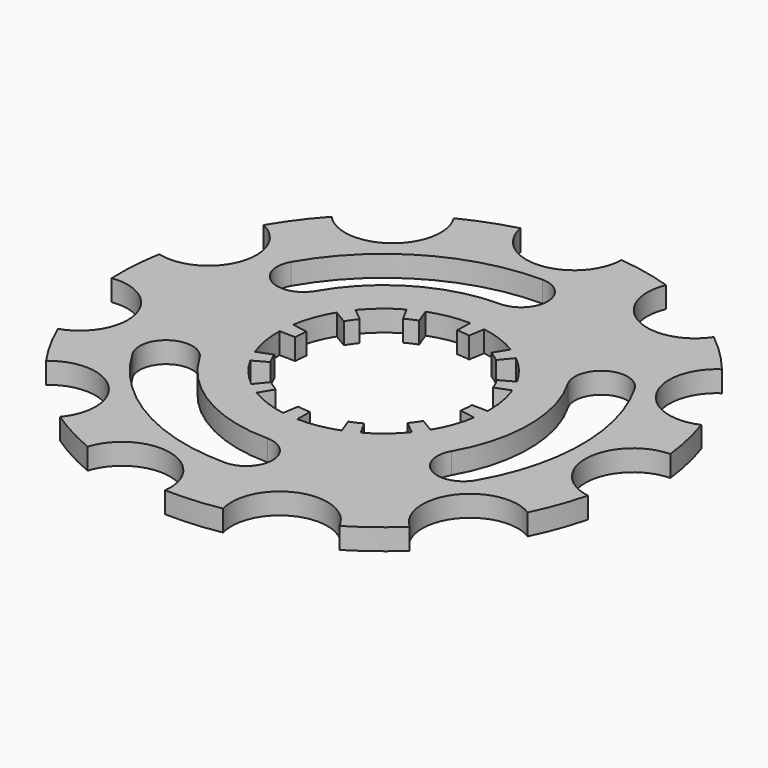
from build123d import *

# Parameters (mm, degrees)
F1_DEPTH = 2
F2_DEPTH = 2
F4_DEPTH = 2


with BuildPart() as f1:
    # F0 (on Top) → F1 (new body)
    with BuildSketch(Plane.XY):
        with BuildLine():
            ThreePointArc((24.235519, -6.135113), (20.423062, -1.358402), (24.834565, 2.871307))
            ThreePointArc((24.834565, 2.871307), (24.40188, 5.435831), (23.705109, 7.941526))
            ThreePointArc((23.705109, 7.941526), (17.91538, 9.89878), (19.33982, 15.842076))
            ThreePointArc((19.33982, 15.842076), (17.589336, 17.765564), (15.648493, 19.496786))
            ThreePointArc((15.648493, 19.496786), (9.719693, 18.01317), (7.704819, 23.783098))
            ThreePointArc((7.704819, 23.783098), (5.192302, 24.454856), (2.623592, 24.861954))
            ThreePointArc((2.623592, 24.861954), (-1.561929, 20.408505), (-6.376408, 24.173155))
            ThreePointArc((-6.376408, 24.173155), (-8.853251, 23.379905), (-11.234281, 22.333628))
            ThreePointArc((-11.234281, 22.333628), (-12.347649, 16.324284), (-18.43317, 16.888406))
            ThreePointArc((-18.43317, 16.888406), (-20.08796, 14.881998), (-21.525349, 12.714532))
            ThreePointArc((-21.525349, 12.714532), (-19.213078, 7.057219), (-24.637531, 4.241707))
            ThreePointArc((-24.637531, 4.241707), (-24.944883, 1.659163), (-24.982271, -0.941337))
            ThreePointArc((-24.982271, -0.941337), (-19.97849, -4.450464), (-23.01965, -9.751704))
            ThreePointArc((-23.01965, -9.751704), (-21.881982, -12.090445), (-20.507499, -14.298339))
            ThreePointArc((-20.507499, -14.298339), (-14.400873, -14.545156), (-14.093192, -20.649018))
            ThreePointArc((-14.093192, -20.649018), (-11.871706, -22.001422), (-9.52174, -23.115719))
            ThreePointArc((-9.52174, -23.115719), (-4.25108, -20.021864), (-0.692246, -24.990414))
            ThreePointArc((-0.692246, -24.990414), (1.907752, -24.927103), (4.487104, -24.594022))
            ThreePointArc((4.487104, -24.594022), (7.2484, -19.141771), (12.928483, -21.397531))
            ThreePointArc((12.928483, -21.397531), (15.081513, -19.938605), (17.071324, -18.263896))
            ThreePointArc((17.071324, -18.263896), (16.446565, -12.184301), (22.444511, -11.011082))
            ThreePointArc((22.444511, -11.011082), (23.467, -8.619741), (24.235519, -6.135113))
        make_face()
        with BuildLine():
            ThreePointArc((9.357447, 3.52678), (9.83805, 1.792418), (10, 0))
            ThreePointArc((10, 0), (9.999547, -0.095211), (9.998187, -0.190414))
            ThreePointArc((9.998187, -0.190414), (9.958528, -0.909789), (9.867177, -1.624442))
            ThreePointArc((9.867177, -1.624442), (9.383729, -3.456246), (8.563477, -5.163997))
            ThreePointArc((8.563477, -5.163997), (8.169444, -5.767165), (7.733005, -6.340397))
            ThreePointArc((7.733005, -6.340397), (6.398425, -7.685061), (4.83419, -8.753891))
            ThreePointArc((4.83419, -8.753891), (4.191363, -9.079233), (3.52678, -9.357447))
            ThreePointArc((3.52678, -9.357447), (1.698668, -9.85467), (-0.190414, -9.998187))
            ThreePointArc((-0.190414, -9.998187), (-0.909789, -9.958528), (-1.624442, -9.867177))
            ThreePointArc((-1.624442, -9.867177), (-3.456246, -9.383729), (-5.163997, -8.563477))
            ThreePointArc((-5.163997, -8.563477), (-5.767165, -8.169444), (-6.340397, -7.733005))
            ThreePointArc((-6.340397, -7.733005), (-7.685061, -6.398425), (-8.753891, -4.83419))
            ThreePointArc((-8.753891, -4.83419), (-9.079233, -4.191363), (-9.357447, -3.52678))
            ThreePointArc((-9.357447, -3.52678), (-9.85467, -1.698668), (-9.998187, 0.190414))
            ThreePointArc((-9.998187, 0.190414), (-9.958528, 0.909789), (-9.867177, 1.624442))
            ThreePointArc((-9.867177, 1.624442), (-9.383729, 3.456246), (-8.563477, 5.163997))
            ThreePointArc((-8.563477, 5.163997), (-8.169444, 5.767165), (-7.733005, 6.340397))
            ThreePointArc((-7.733005, 6.340397), (-6.398425, 7.685061), (-4.83419, 8.753891))
            ThreePointArc((-4.83419, 8.753891), (-4.191363, 9.079233), (-3.52678, 9.357447))
            ThreePointArc((-3.52678, 9.357447), (-1.698668, 9.85467), (0.190414, 9.998187))
            ThreePointArc((0.190414, 9.998187), (0.909789, 9.958528), (1.624442, 9.867177))
            ThreePointArc((1.624442, 9.867177), (3.456246, 9.383729), (5.163997, 8.563477))
            ThreePointArc((5.163997, 8.563477), (5.767165, 8.169444), (6.340397, 7.733005))
            ThreePointArc((6.340397, 7.733005), (7.685061, 6.398425), (8.753891, 4.83419))
            ThreePointArc((8.753891, 4.83419), (9.079233, 4.191363), (9.357447, 3.52678))
        make_face(mode=Mode.SUBTRACT)
    extrude(amount=F1_DEPTH)

    # F0 (on Top) → F2 (join)
    with BuildSketch(Plane.XY):
        with BuildLine():
            Line((7.95383, 2.997763), (9.357447, 3.52678))
            ThreePointArc((9.357447, 3.52678), (9.079233, 4.191363), (8.753891, 4.83419))
            Line((8.753891, 4.83419), (7.440807, 4.109062))
            ThreePointArc((7.440807, 4.109062), (7.717348, 3.562659), (7.95383, 2.997763))
        make_face()
        with BuildLine():
            Line((5.389337, 6.573054), (6.340397, 7.733005))
            ThreePointArc((6.340397, 7.733005), (5.767165, 8.169444), (5.163997, 8.563477))
            Line((5.163997, 8.563477), (4.389397, 7.278955))
            ThreePointArc((4.389397, 7.278955), (4.90209, 6.944027), (5.389337, 6.573054))
        make_face()
        with BuildLine():
            Line((1.380776, 8.387101), (1.624442, 9.867177))
            ThreePointArc((1.624442, 9.867177), (0.909789, 9.958528), (0.190414, 9.998187))
            Line((0.190414, 9.998187), (0.161852, 8.498459))
            ThreePointArc((0.161852, 8.498459), (0.773321, 8.464749), (1.380776, 8.387101))
        make_face()
        with BuildLine():
            ThreePointArc((9.867177, -1.624442), (9.958528, -0.909789), (9.998187, -0.190414))
            Line((9.998187, -0.190414), (8.498459, -0.161852))
            ThreePointArc((8.498459, -0.161852), (8.464749, -0.773321), (8.387101, -1.380776))
            Line((8.387101, -1.380776), (9.867177, -1.624442))
        make_face()
        with BuildLine():
            ThreePointArc((7.733005, -6.340397), (8.169444, -5.767165), (8.563477, -5.163997))
            Line((8.563477, -5.163997), (7.278955, -4.389397))
            ThreePointArc((7.278955, -4.389397), (6.944027, -4.90209), (6.573054, -5.389337))
            Line((6.573054, -5.389337), (7.733005, -6.340397))
        make_face()
        with BuildLine():
            ThreePointArc((3.52678, -9.357447), (4.191363, -9.079233), (4.83419, -8.753891))
            Line((4.83419, -8.753891), (4.109062, -7.440807))
            ThreePointArc((4.109062, -7.440807), (3.562659, -7.717348), (2.997763, -7.95383))
            Line((2.997763, -7.95383), (3.52678, -9.357447))
        make_face()
        with BuildLine():
            ThreePointArc((-1.624442, -9.867177), (-0.909789, -9.958528), (-0.190414, -9.998187))
            Line((-0.190414, -9.998187), (-0.161852, -8.498459))
            ThreePointArc((-0.161852, -8.498459), (-0.773321, -8.464749), (-1.380776, -8.387101))
            Line((-1.380776, -8.387101), (-1.624442, -9.867177))
        make_face()
        with BuildLine():
            ThreePointArc((-6.340397, -7.733005), (-5.767165, -8.169444), (-5.163997, -8.563477))
            Line((-5.163997, -8.563477), (-4.389397, -7.278955))
            ThreePointArc((-4.389397, -7.278955), (-4.90209, -6.944027), (-5.389337, -6.573054))
            Line((-5.389337, -6.573054), (-6.340397, -7.733005))
        make_face()
        with BuildLine():
            ThreePointArc((-9.357447, -3.52678), (-9.079233, -4.191363), (-8.753891, -4.83419))
            Line((-8.753891, -4.83419), (-7.440807, -4.109062))
            ThreePointArc((-7.440807, -4.109062), (-7.717348, -3.562659), (-7.95383, -2.997763))
            Line((-7.95383, -2.997763), (-9.357447, -3.52678))
        make_face()
        with BuildLine():
            Line((-8.387101, 1.380776), (-9.867177, 1.624442))
            ThreePointArc((-9.867177, 1.624442), (-9.958528, 0.909789), (-9.998187, 0.190414))
            Line((-9.998187, 0.190414), (-8.498459, 0.161852))
            ThreePointArc((-8.498459, 0.161852), (-8.464749, 0.773321), (-8.387101, 1.380776))
        make_face()
        with BuildLine():
            Line((-6.573054, 5.389337), (-7.733005, 6.340397))
            ThreePointArc((-7.733005, 6.340397), (-8.169444, 5.767165), (-8.563477, 5.163997))
            Line((-8.563477, 5.163997), (-7.278955, 4.389397))
            ThreePointArc((-7.278955, 4.389397), (-6.944027, 4.90209), (-6.573054, 5.389337))
        make_face()
        with BuildLine():
            Line((-2.997763, 7.95383), (-3.52678, 9.357447))
            ThreePointArc((-3.52678, 9.357447), (-4.191363, 9.079233), (-4.83419, 8.753891))
            Line((-4.83419, 8.753891), (-4.109062, 7.440807))
            ThreePointArc((-4.109062, 7.440807), (-3.562659, 7.717348), (-2.997763, 7.95383))
        make_face()
    extrude(amount=F2_DEPTH)

    # F3 (on face) → F4 (cut)
    with BuildSketch(Plane.XY.offset(2)):
        with BuildLine():
            ThreePointArc((-11.920186, 6.882123), (-6.882123, 11.920186), (0, 13.764245))
            ThreePointArc((0, 13.764245), (2.5, 16.264245), (0, 18.764245))
            ThreePointArc((0, 18.764245), (-9.382123, 16.250313), (-16.250313, 9.382123))
            ThreePointArc((-16.250313, 9.382123), (-15.335249, 5.967059), (-11.920186, 6.882123))
        make_face()
        with BuildLine():
            ThreePointArc((0, -13.764245), (-6.882123, -11.920186), (-11.920186, -6.882123))
            ThreePointArc((-11.920186, -6.882123), (-15.335249, -5.967059), (-16.250313, -9.382123))
            ThreePointArc((-16.250313, -9.382123), (-9.382123, -16.250313), (0, -18.764245))
            ThreePointArc((0, -18.764245), (2.5, -16.264245), (0, -13.764245))
        make_face()
        with BuildLine():
            ThreePointArc((11.920186, 6.882123), (13.764245, 0), (11.920186, -6.882123))
            ThreePointArc((11.920186, -6.882123), (12.835249, -10.297186), (16.250313, -9.382123))
            ThreePointArc((16.250313, -9.382123), (18.764245, 0), (16.250313, 9.382123))
            ThreePointArc((16.250313, 9.382123), (12.835249, 10.297186), (11.920186, 6.882123))
        make_face()
    extrude(amount=-F4_DEPTH, mode=Mode.SUBTRACT)


solid = f1.part
